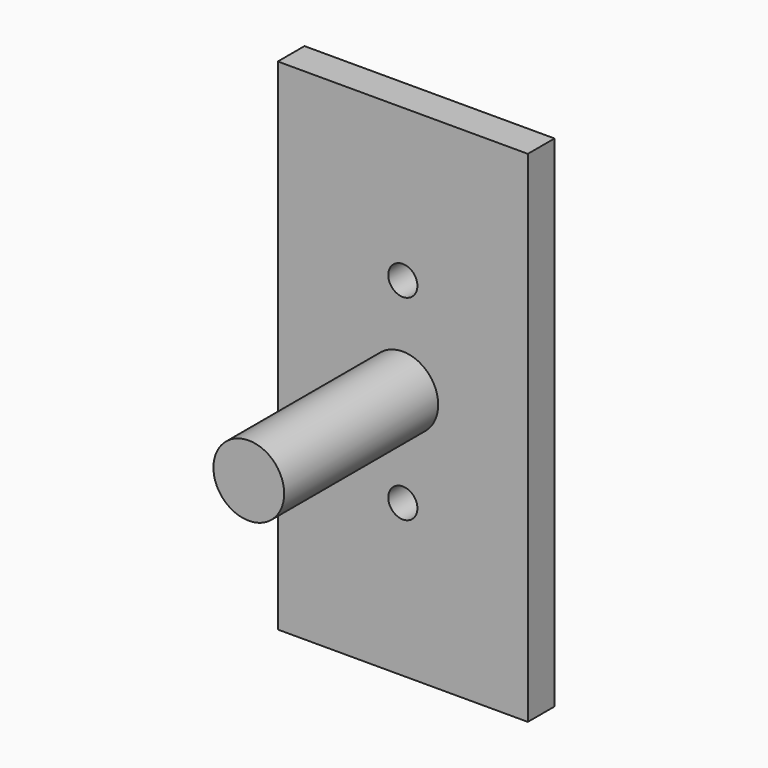
from build123d import *

# Parameters (mm, degrees)
F0_R     = 1.75
F1_DEPTH = 4
F3_R     = 4.245
F4_DEPTH = 23.101011


with BuildPart() as f1:
    # F0 (on Front) → F1 (new body)
    with BuildSketch(Plane.XZ):
        Polygon((-15, 30), (-15, 0), (-15, -30), (0, -30), (15, -30), (15, 0), (15, 30), (0, 30), align=None)
        with Locations((0, -11.75)):
            Circle(F0_R, mode=Mode.SUBTRACT)
        with Locations((0, 11.75)):
            Circle(F0_R, mode=Mode.SUBTRACT)
    extrude(amount=F1_DEPTH)

    # F3 (on face) → F4 (join)
    with BuildSketch(Plane.XZ.offset(4)):
        Circle(F3_R)
    extrude(amount=F4_DEPTH)


solid = f1.part
